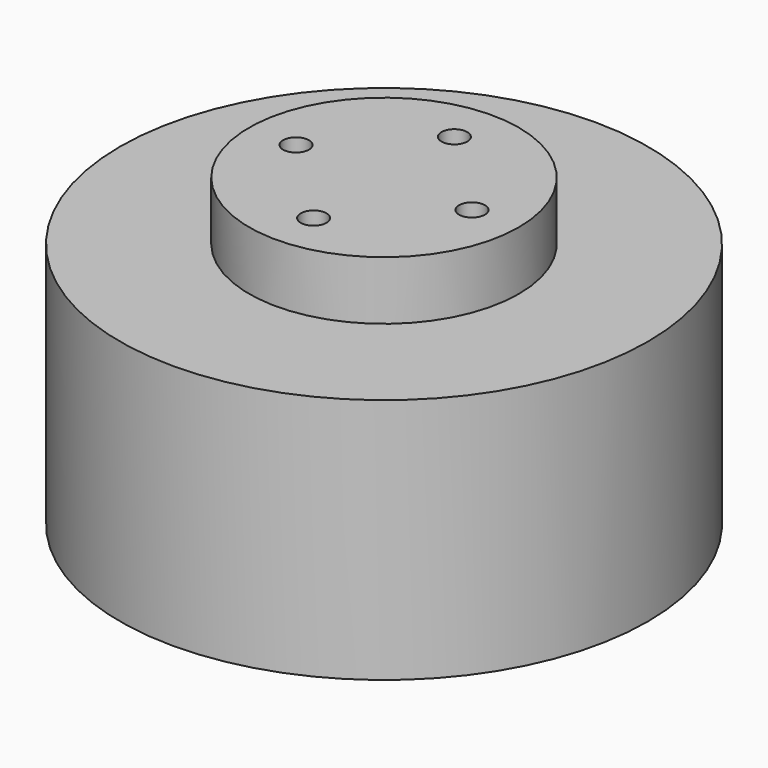
from build123d import *

# Parameters (mm, degrees)
F0_R      = 22.5
F1_DEPTH  = 21
F2_R      = 1.5
F3_DEPTH  = 3
F4_R      = 5
F5_DEPTH  = 1.2
F6_R      = 1
F7_DEPTH  = 5
F8_R      = 11.4985777255
F9_DEPTH  = 5
F10_R     = 5.5
F11_DEPTH = 2
F12_R     = 1.1
F13_DEPTH = 5
F14_R     = 2.2
F15_DEPTH = 3


with BuildPart() as f1:
    # F0 (on Top) → F1 (new body)
    with BuildSketch(Plane.XY):
        Circle(F0_R)
    extrude(amount=F1_DEPTH)

    # F2 (on face) → F3 (cut)
    with BuildSketch(Plane(origin=(0, 0, 0), x_dir=(1, 0, 0), z_dir=(0, 0, -1))):
        with Locations((0, 10)):
            Circle(F2_R)
        with Locations((0, -10)):
            Circle(F2_R)
        with Locations((12.5, 0)):
            Circle(F2_R)
        with Locations((-12.5, 0)):
            Circle(F2_R)
    extrude(amount=-F3_DEPTH, mode=Mode.SUBTRACT)

    # F4 (on face) → F5 (join)
    with BuildSketch(Plane.XY.offset(21)):
        Circle(F4_R)
    extrude(amount=F5_DEPTH)

    # F6 (on face) → F7 (cut)
    with BuildSketch(Plane.XY.offset(21)):
        with Locations((0, 7.5)):
            Circle(F6_R)
        with Locations((0, -7.5)):
            Circle(F6_R)
        with Locations((7.5, 0)):
            Circle(F6_R)
        with Locations((-7.5, 0)):
            Circle(F6_R)
    extrude(amount=-F7_DEPTH, mode=Mode.SUBTRACT)


with BuildPart() as f9:
    # F8 (on face) → F9 (new body)
    with BuildSketch(Plane.XY.offset(21)):
        Circle(F8_R)
    extrude(amount=F9_DEPTH)

    # F10 (on face) → F11 (cut)
    with BuildSketch(Plane(origin=(0, 0, 21), x_dir=(1, 0, 0), z_dir=(0, 0, -1))):
        Circle(F10_R)
    extrude(amount=-F11_DEPTH, mode=Mode.SUBTRACT)

    # F12 (on face) → F13 (cut, through all)
    with BuildSketch(Plane.XY.offset(26)):
        with Locations((-7.5, 0)):
            Circle(F12_R)
        with Locations((0, 7.5)):
            Circle(F12_R)
        with Locations((7.5, 0)):
            Circle(F12_R)
        with Locations((0, -7.5)):
            Circle(F12_R)
    extrude(amount=-F13_DEPTH, mode=Mode.SUBTRACT)

    # F14 (on face) → F15 (cut)
    with BuildSketch(Plane(origin=(0, 0, 21), x_dir=(1, 0, 0), z_dir=(0, 0, -1))):
        with Locations((0, 7.5)):
            Circle(F14_R)
        with Locations((0, -7.5)):
            Circle(F14_R)
    extrude(amount=-F15_DEPTH, mode=Mode.SUBTRACT)


solid = Compound([f1.part, f9.part])
